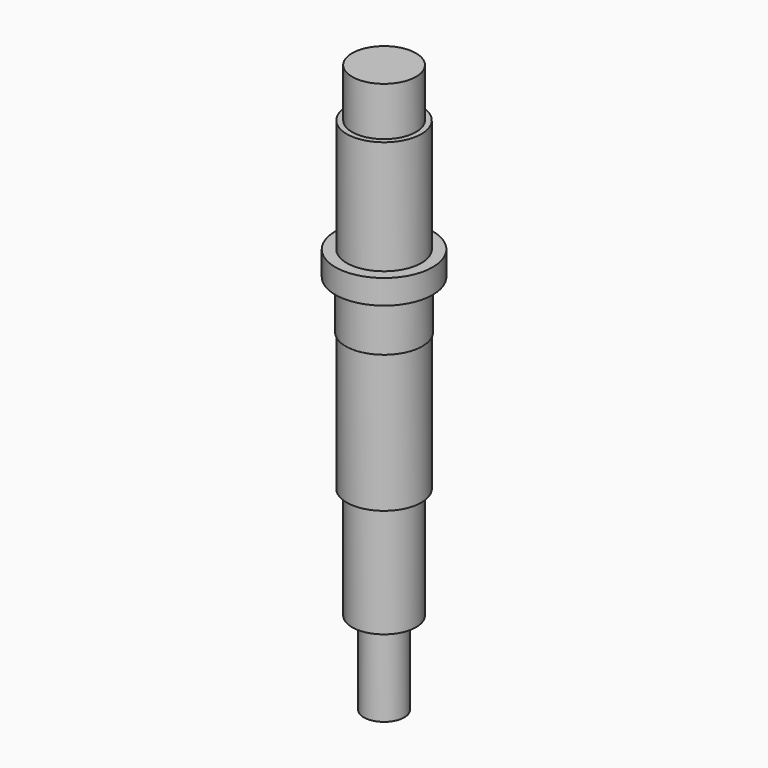
from build123d import *


with BuildPart() as f1:
    # F0 (on Front) → F1 (revolve)
    with BuildSketch(Plane.XZ):
        Polygon((12.5095, 111.125), (0, 111.125), (0, -111.125), (7.9375, -111.125), (7.9375, -78.58252), (12.5095, -78.58252), (12.5095, -34.925), (14.605, -34.925), (14.605, 19.05), (14.986, 19.05), (14.986, 38.1), (19.05, 38.1), (19.05, 47.625), (14.605, 47.625), (14.605, 92.075), (12.5095, 92.075), align=None)
    revolve(axis=Axis((0, 0, 0), (0, 0, -1)))


solid = f1.part
